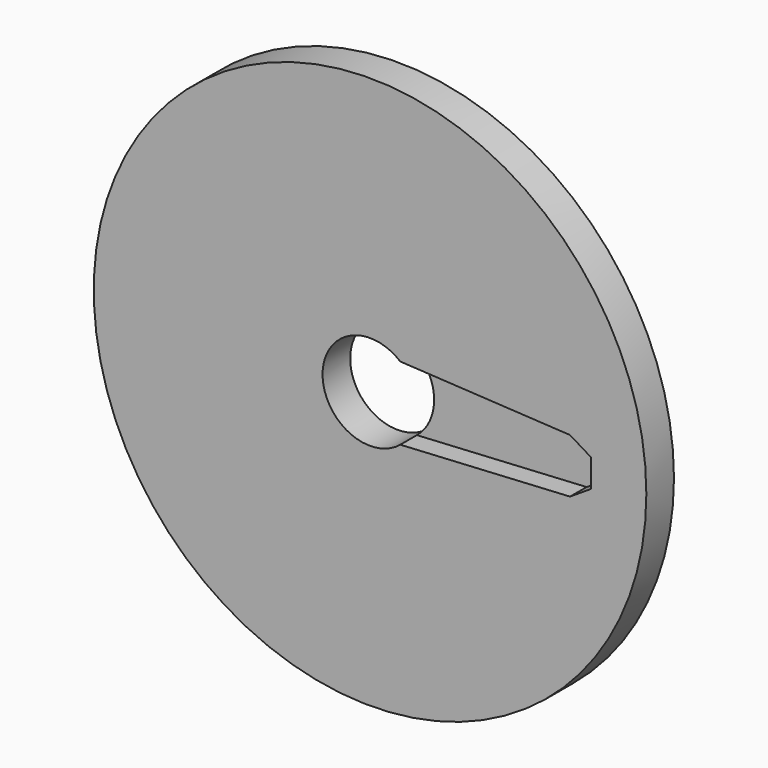
from build123d import *

# Parameters (mm, degrees)
F0_R     = 20.32
F1_DEPTH = 2.54
F2_R     = 3.4925
F3_DEPTH = 25.4
F5_DEPTH = 1.524


with BuildPart() as f1:
    # F0 (on Front) → F1 (new body)
    with BuildSketch(Plane.XZ):
        Circle(F0_R)
    extrude(amount=F1_DEPTH)

    # F2 (on face) → F3 (cut)
    with BuildSketch(Plane.XZ.offset(2.54)):
        Circle(F2_R)
    extrude(amount=-F3_DEPTH, mode=Mode.SUBTRACT)

    # F4 (on face) → F5 (cut)
    with BuildSketch(Plane.XZ.offset(2.54)):
        Polygon((14.7066, 1.9939), (2.224531, 2.6924), (2.224531, -2.6924), (14.7066, -1.9939), (16.256, -0.993628), (16.256, 1.051273), align=None)
    extrude(amount=-F5_DEPTH, mode=Mode.SUBTRACT)


solid = f1.part
